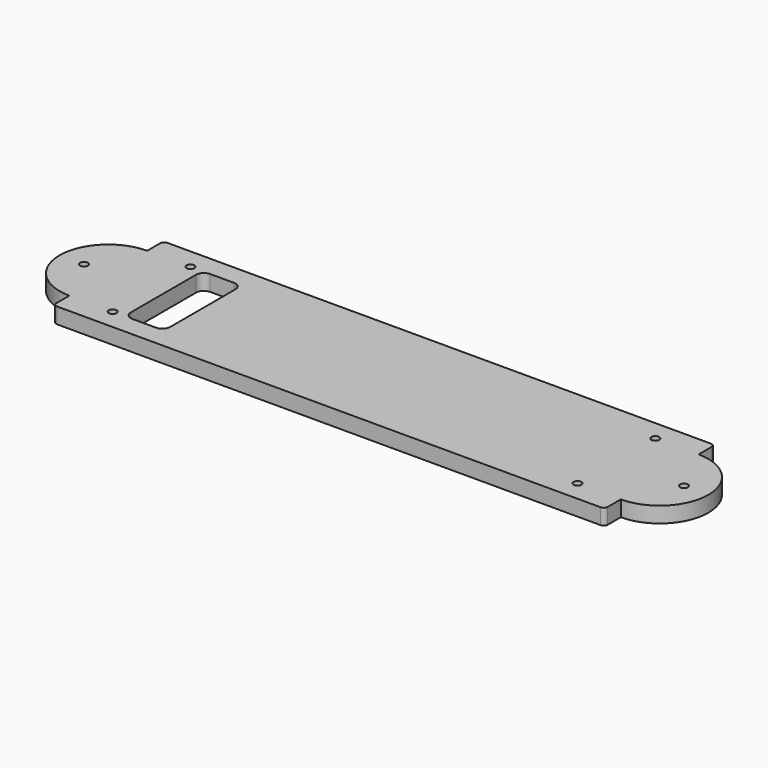
from build123d import *

# Parameters (mm, degrees)
SKETCH_R    = 1
SKETCH_W    = 10
SKETCH_H    = 24.7
PAD_DEPTH   = 4
FILLET_R    = 1
FILLET001_R = 1
FILLET002_R = 1
FILLET003_R = 1
FILLET004_R = 2
FILLET005_R = 2
FILLET006_R = 2
FILLET007_R = 2


with BuildPart() as part:
    # Sketch → Pad (new body)
    with BuildSketch(Plane.XY):
        with BuildLine():
            Line((0, 0), (140, 0))
            Line((140, 5.15), (140, 0))
            ThreePointArc((140, 5.15), (152.35, 17.5), (140, 29.85))
            Line((140, 35), (140, 29.85))
            Line((140, 35), (0, 35))
            Line((0, 35), (0, 29.85))
            ThreePointArc((0, 29.85), (-12.35, 17.5), (0, 5.15))
            Line((0, 5.15), (0, 0))
        make_face()
        with Locations((129, 29.85)):
            Circle(SKETCH_R, mode=Mode.SUBTRACT)
        with Locations((129, 5.15)):
            Circle(SKETCH_R, mode=Mode.SUBTRACT)
        with Locations((11, 29.85)):
            Circle(SKETCH_R, mode=Mode.SUBTRACT)
        with Locations((11, 5.15)):
            Circle(SKETCH_R, mode=Mode.SUBTRACT)
        with Locations((-6.175, 17.5)):
            Circle(SKETCH_R, mode=Mode.SUBTRACT)
        with Locations((146.175, 17.5)):
            Circle(SKETCH_R, mode=Mode.SUBTRACT)
        with Locations((19, 17.5)):
            Rectangle(SKETCH_W, SKETCH_H, mode=Mode.SUBTRACT)
    extrude(amount=PAD_DEPTH)

    # Fillet
    fillet_edges = [part.edges().sort_by_distance(p)[0] for p in [
        (140, 0, 2),
    ]]
    fillet(fillet_edges, radius=FILLET_R)

    # Fillet001
    fillet001_edges = [part.edges().sort_by_distance(p)[0] for p in [
        (0, 0, 2),
    ]]
    fillet(fillet001_edges, radius=FILLET001_R)

    # Fillet002
    fillet002_edges = [part.edges().sort_by_distance(p)[0] for p in [
        (140, 35, 2),
    ]]
    fillet(fillet002_edges, radius=FILLET002_R)

    # Fillet003
    fillet003_edges = [part.edges().sort_by_distance(p)[0] for p in [
        (0, 35, 2),
    ]]
    fillet(fillet003_edges, radius=FILLET003_R)

    # Fillet004
    fillet004_edges = [part.edges().sort_by_distance(p)[0] for p in [
        (14, 29.85, 2),
    ]]
    fillet(fillet004_edges, radius=FILLET004_R)

    # Fillet005
    fillet005_edges = [part.edges().sort_by_distance(p)[0] for p in [
        (14, 5.15, 2),
    ]]
    fillet(fillet005_edges, radius=FILLET005_R)

    # Fillet006
    fillet006_edges = [part.edges().sort_by_distance(p)[0] for p in [
        (24, 5.15, 2),
    ]]
    fillet(fillet006_edges, radius=FILLET006_R)

    # Fillet007
    fillet007_edges = [part.edges().sort_by_distance(p)[0] for p in [
        (24, 29.85, 2),
    ]]
    fillet(fillet007_edges, radius=FILLET007_R)


solid = part.part
